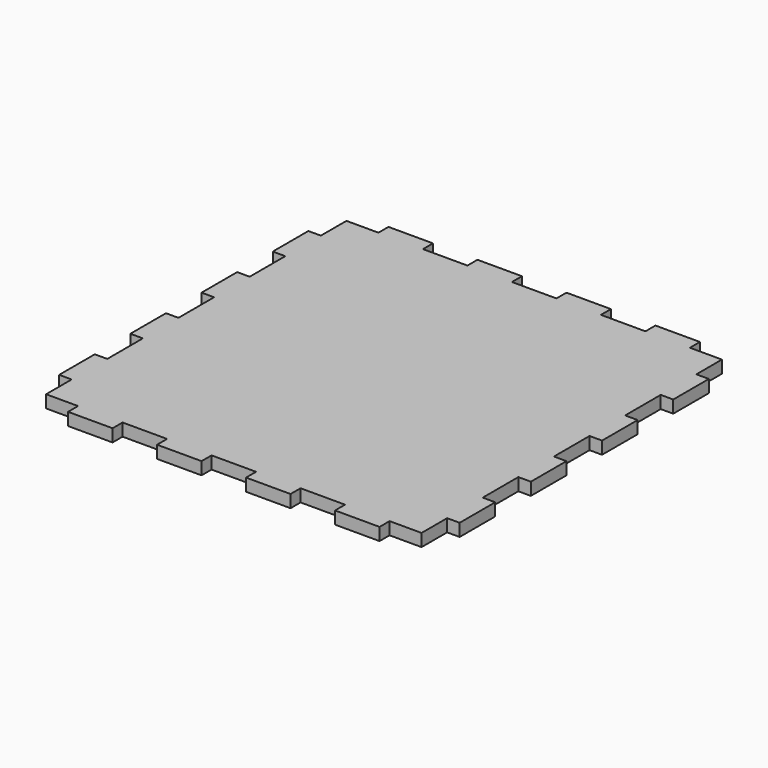
from build123d import *

# Parameters (mm, degrees)
F1_DEPTH = 6.35


with BuildPart() as f1:
    # F0 (on Top) → F1 (new body)
    with BuildSketch(Plane.XY):
        Polygon((-56.444444, 101.6), (-79.022222, 101.6), (-79.022222, 95.25), (-95.25, 95.25), (-95.25, 79.022222), (-101.6, 79.022222), (-101.6, 56.444444), (-95.25, 56.444444), (-95.25, 33.866667), (-101.6, 33.866667), (-101.6, 11.288889), (-95.25, 11.288889), (-95.25, -11.288889), (-101.6, -11.288889), (-101.6, -33.866667), (-95.25, -33.866667), (-95.25, -56.444444), (-101.6, -56.444444), (-101.6, -79.022222), (-95.25, -79.022222), (-95.25, -95.25), (-79.022222, -95.25), (-79.022222, -101.6), (-56.444444, -101.6), (-56.444444, -95.25), (-33.866667, -95.25), (-33.866667, -101.6), (-11.288889, -101.6), (-11.288889, -95.25), (11.288889, -95.25), (11.288889, -101.6), (33.866667, -101.6), (33.866667, -95.25), (56.444444, -95.25), (56.444444, -101.6), (79.022222, -101.6), (79.022222, -95.25), (95.25, -95.25), (95.25, -79.022222), (101.6, -79.022222), (101.6, -56.444444), (95.25, -56.444444), (95.25, -33.866667), (101.6, -33.866667), (101.6, -11.288889), (95.25, -11.288889), (95.25, 11.288889), (101.6, 11.288889), (101.6, 33.866667), (95.25, 33.866667), (95.25, 56.444444), (101.6, 56.444444), (101.6, 79.022222), (95.25, 79.022222), (95.25, 95.25), (79.022222, 95.25), (79.022222, 101.6), (56.444444, 101.6), (56.444444, 95.25), (33.866667, 95.25), (33.866667, 101.6), (11.288889, 101.6), (11.288889, 95.25), (-11.288889, 95.25), (-11.288889, 101.6), (-33.866667, 101.6), (-33.866667, 95.25), (-56.444444, 95.25), align=None)
        Polygon((-56.444444, 101.6), (-79.022222, 101.6), (-79.022222, 95.25), (-95.25, 95.25), (-95.25, 79.022222), (-101.6, 79.022222), (-101.6, 56.444444), (-95.25, 56.444444), (-95.25, 33.866667), (-101.6, 33.866667), (-101.6, 11.288889), (-95.25, 11.288889), (-95.25, -11.288889), (-101.6, -11.288889), (-101.6, -33.866667), (-95.25, -33.866667), (-95.25, -56.444444), (-101.6, -56.444444), (-101.6, -79.022222), (-95.25, -79.022222), (-95.25, -95.25), (-79.022222, -95.25), (-79.022222, -101.6), (-56.444444, -101.6), (-56.444444, -95.25), (-33.866667, -95.25), (-33.866667, -101.6), (-11.288889, -101.6), (-11.288889, -95.25), (11.288889, -95.25), (11.288889, -101.6), (33.866667, -101.6), (33.866667, -95.25), (56.444444, -95.25), (56.444444, -101.6), (79.022222, -101.6), (79.022222, -95.25), (95.25, -95.25), (95.25, -79.022222), (101.6, -79.022222), (101.6, -56.444444), (95.25, -56.444444), (95.25, -33.866667), (101.6, -33.866667), (101.6, -11.288889), (95.25, -11.288889), (95.25, 11.288889), (101.6, 11.288889), (101.6, 33.866667), (95.25, 33.866667), (95.25, 56.444444), (101.6, 56.444444), (101.6, 79.022222), (95.25, 79.022222), (95.25, 95.25), (79.022222, 95.25), (79.022222, 101.6), (56.444444, 101.6), (56.444444, 95.25), (33.866667, 95.25), (33.866667, 101.6), (11.288889, 101.6), (11.288889, 95.25), (-11.288889, 95.25), (-11.288889, 101.6), (-33.866667, 101.6), (-33.866667, 95.25), (-56.444444, 95.25), align=None)
    extrude(amount=F1_DEPTH)


solid = f1.part
